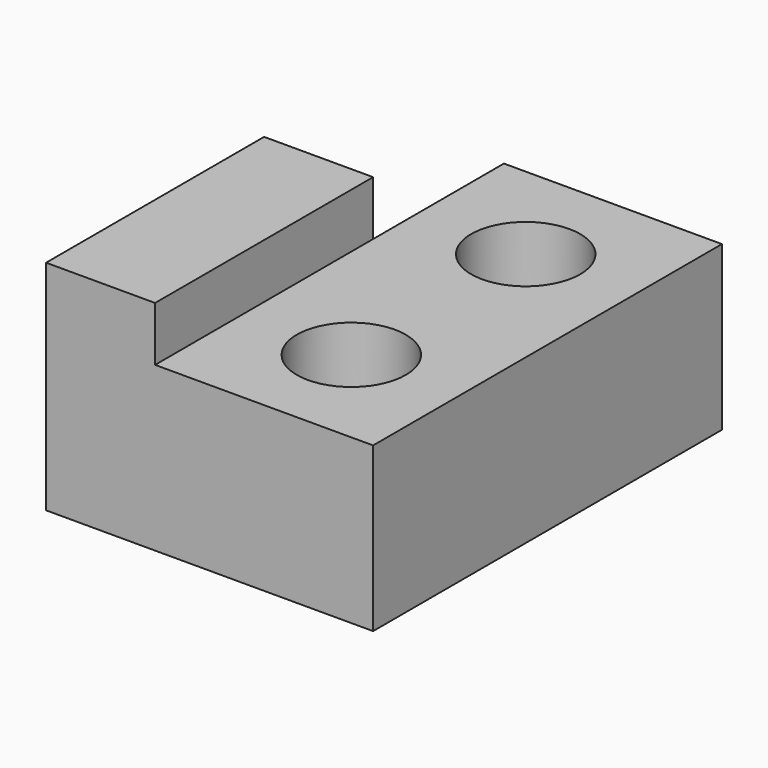
from build123d import *

# Parameters (mm, degrees)
F0_R     = 5
F1_DEPTH = 15
F0_W     = 10
F0_H     = 25
F2_DEPTH = 20


with BuildPart() as f1:
    # F0 (on Top) → F1 (new body)
    with BuildSketch(Plane.XY):
        Polygon((-10, 5), (-10, -20), (10, -20), (10, 20), (-10, 20), align=None)
        with Locations((0, -10)):
            Circle(F0_R, mode=Mode.SUBTRACT)
        with Locations((0, 10)):
            Circle(F0_R, mode=Mode.SUBTRACT)
    extrude(amount=F1_DEPTH)

    # F0 (on Top) → F2 (join)
    with BuildSketch(Plane.XY):
        with Locations((-15, -7.5)):
            Rectangle(F0_W, F0_H)
    extrude(amount=F2_DEPTH)


solid = f1.part
